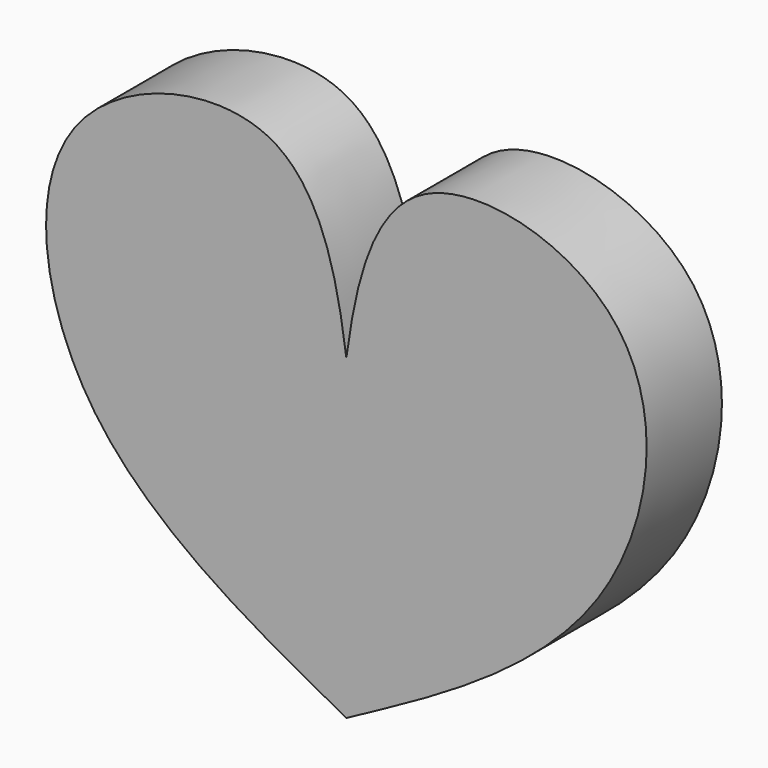
from build123d import *

# Parameters (mm, degrees)
F1_DEPTH = 7.62


with BuildPart() as f1:
    # F0 (on Front) → F1 (new body)
    with BuildSketch(Plane.XZ):
        with BuildLine():
            add(Edge.make_bspline(
                [(0, 0), (0.7171611763, 5.2853131867), (3.2274989978, 17.7948620635), (26.839005389, 11.9754142258), (23.5130648954, -13.8515920011), (5.8546662849, -22.4498874239), (0, -25.6687365472)],
                knots=[0, 0, 0, 0, 0.2223595046, 0.4535564342, 0.7121425392, 1, 1, 1, 1], degree=3))
            add(Edge.make_bspline(
                [(0, 0), (-0.7171611763, 5.2853131867), (-3.2274989978, 17.7948620635), (-26.839005389, 11.9754142258), (-23.5130648954, -13.8515920011), (-5.8546662849, -22.4498874239), (0, -25.6687365472)],
                knots=[0, 0, 0, 0, 0.2223595046, 0.4535564342, 0.7121425392, 1, 1, 1, 1], degree=3))
        make_face()
    extrude(amount=F1_DEPTH)


solid = f1.part
